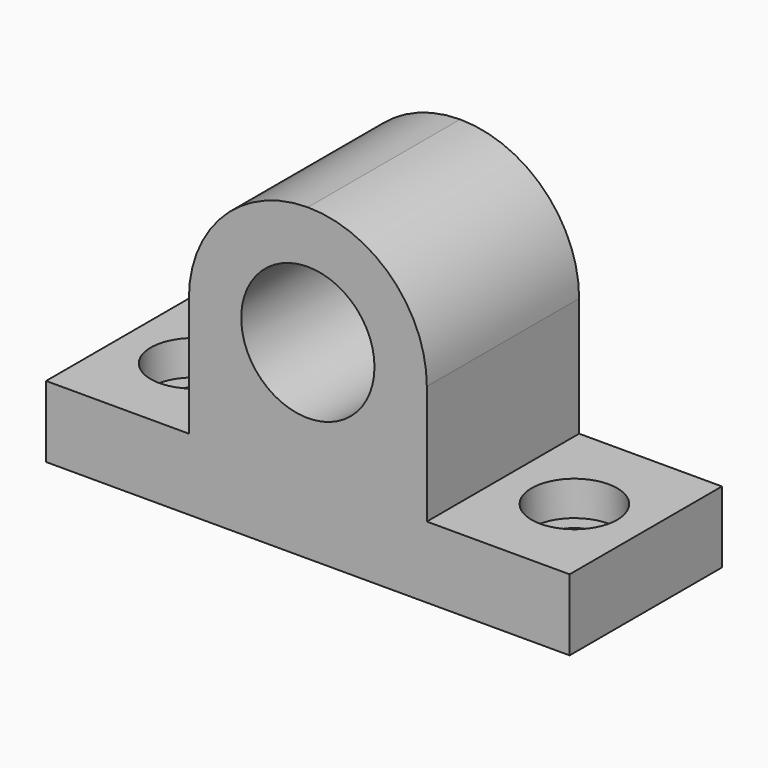
from build123d import *

# Parameters (mm, degrees)
F0_W     = 110
F0_H     = 40
F1_DEPTH = 65
F2_R     = 5.5
F3_DEPTH = 80
F2_R_2   = 9
F4_DEPTH = 57.3
F5_R     = 14
F6_DEPTH = 80


with BuildPart() as f1:
    # F0 (on Top) → F1 (new body)
    with BuildSketch(Plane.XY):
        Rectangle(F0_W, F0_H)
    extrude(amount=F1_DEPTH)

    # F2 (on face) → F3 (cut)
    with BuildSketch(Plane.XY.offset(65)):
        with Locations((-40, 0)):
            Circle(F2_R)
        with Locations((40, 0)):
            Circle(F2_R)
    extrude(amount=-F3_DEPTH, mode=Mode.SUBTRACT)

    # F2 (on face) → F4 (cut)
    with BuildSketch(Plane.XY.offset(65)):
        with Locations((-40, 0)):
            Circle(F2_R_2)
        with Locations((-40, 0)):
            Circle(F2_R, mode=Mode.SUBTRACT)
        with Locations((40, 0)):
            Circle(F2_R_2)
        with Locations((40, 0)):
            Circle(F2_R, mode=Mode.SUBTRACT)
    extrude(amount=-F4_DEPTH, mode=Mode.SUBTRACT)

    # F5 (on face) → F6 (cut)
    with BuildSketch(Plane.XZ.offset(20)):
        with Locations((0, 40)):
            Circle(F5_R)
        with BuildLine():
            Line((-55, 65), (-55, 15))
            Line((-55, 15), (-25, 15))
            Line((-25, 15), (-25, 40))
            ThreePointArc((-25, 40), (-17.67767, 57.67767), (0, 65))
            Line((0, 65), (-55, 65))
        make_face()
        with BuildLine():
            Line((55, 65), (0, 65))
            ThreePointArc((0, 65), (17.67767, 57.67767), (25, 40))
            Line((25, 40), (25, 15))
            Line((25, 15), (55, 15))
            Line((55, 15), (55, 65))
        make_face()
    extrude(amount=-F6_DEPTH, mode=Mode.SUBTRACT)


solid = f1.part
